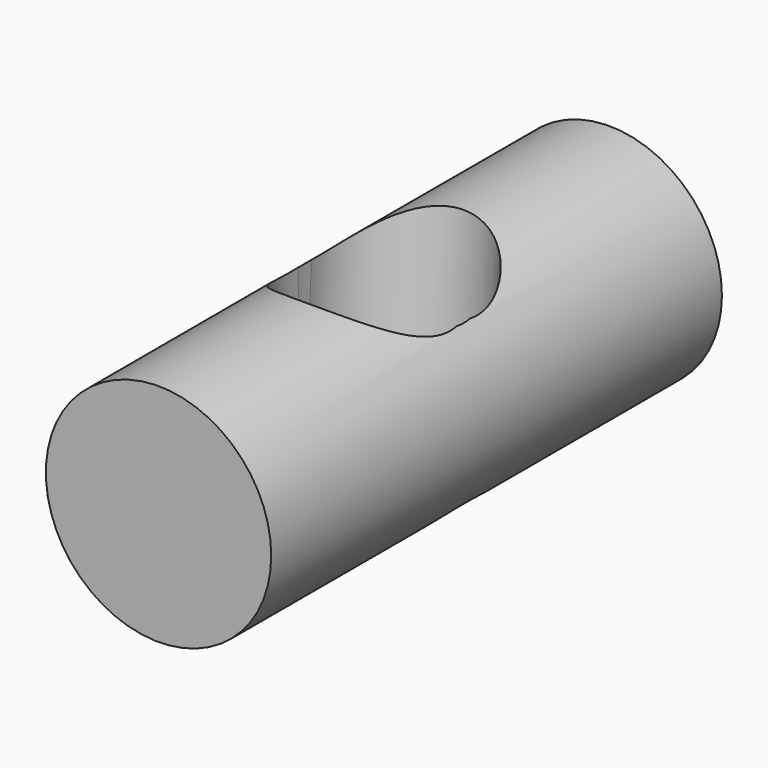
from build123d import *

# Parameters (mm, degrees)
F0_R      = 6
F1_DEPTH  = 30
F6_R      = 4.25
F8_DEPTH  = 13.262673
F7_R      = 4.25
F9_DEPTH  = 13.262673
F3_R      = 4.25
F10_DEPTH = 12.001


with BuildPart() as f1:
    # F0 (on Front) → F1 (new body)
    with BuildSketch(Plane.XZ):
        Circle(F0_R)
    extrude(amount=F1_DEPTH)

    # F6 (on face) → F8 (cut, through all)
    with BuildSketch(Plane(origin=(0, 0.407003, -4.652062), x_dir=(1, 0, 0), z_dir=(0, 0.087156, -0.996195))):
        with Locations((0, 15.465855)):
            Circle(F6_R)
    extrude(amount=-F8_DEPTH, mode=Mode.SUBTRACT)

    # F7 (on face) → F9 (cut, through all)
    with BuildSketch(Plane(origin=(0, -0.634886, -7.256785), x_dir=(1, 0, 0), z_dir=(0, -0.087156, -0.996195))):
        with Locations((0, 14.419986)):
            Circle(F7_R)
    extrude(amount=-F9_DEPTH, mode=Mode.SUBTRACT)

    # F3 (on offset) → F10 (cut, through all)
    with BuildSketch(Plane.XY.offset(-6)):
        with Locations((0, -15)):
            Circle(F3_R)
    extrude(amount=F10_DEPTH, mode=Mode.SUBTRACT)


solid = f1.part
